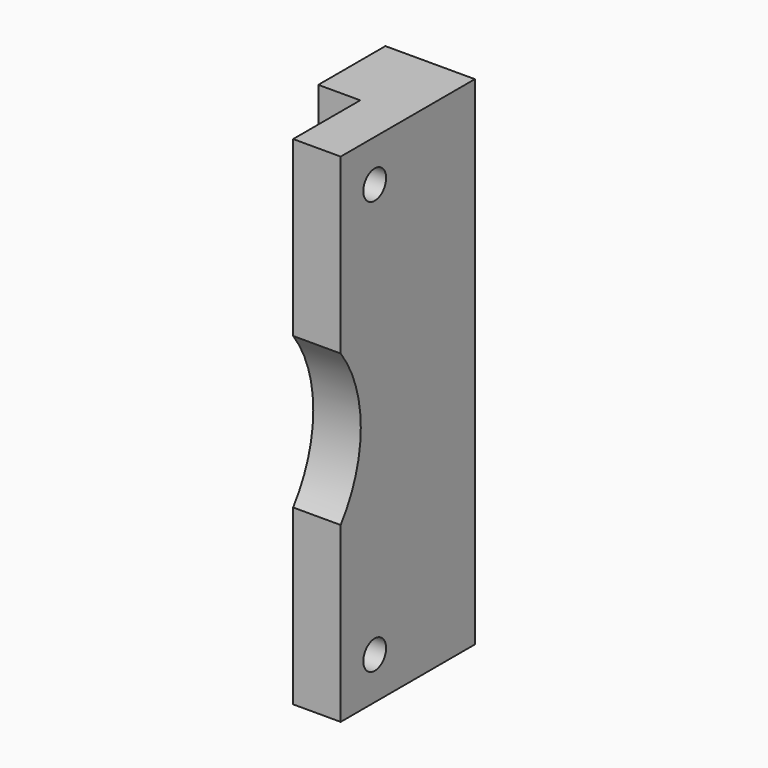
from build123d import *

# Parameters (mm, degrees)
F4_R      = 5
F5_DEPTH  = 17
F7_W      = 30
F7_H      = 178
F8_DEPTH  = 15
F10_D     = 10.2
F10_DEPTH = 80
F10_START = 31
F10_TIP   = 3.064389157
F11_D     = 13.2
F11_DEPTH = 30
F11_TIP   = 3.9656800856


with BuildPart() as f5:
    # F4 (on offset) → F5 (new body)
    with BuildSketch(Plane.YZ.offset(-48)):
        with BuildLine():
            Line((36, 89), (36, 27))
            ThreePointArc((36, 27), (45, 0), (36, -27))
            Line((36, -27), (36, -89))
            Line((36, -89), (96, -89))
            Line((96, -89), (96, 89))
            Line((96, 89), (36, 89))
        make_face()
        with Locations((51.2249938995, -74)):
            Circle(F4_R, mode=Mode.SUBTRACT)
        with Locations((51.2249938995, 74)):
            Circle(F4_R, mode=Mode.SUBTRACT)
        with Locations((51.2249938995, 74)):
            Circle(F4_R)
        with Locations((51.2249938995, -74)):
            Circle(F4_R)
    extrude(amount=F5_DEPTH)

    # F7 (on face) → F8 (join)
    with BuildSketch(Plane(origin=(-48, 0, 0), x_dir=(0, -1, 0), z_dir=(-1, 0, 0))):
        with Locations((-81, 0)):
            Rectangle(F7_W, F7_H)
    extrude(amount=F8_DEPTH)

    # F10
    # its depths count from where the whole tool has entered the part; down to there all is cleared
    with Locations(Plane.YZ.offset(-F10_START)):
        with Locations((51.2249938995, 74), (51.2249938995, -74)):
            Hole(F10_D / 2, depth=F10_DEPTH)
            with Locations((0, 0, -(F10_DEPTH + F10_TIP / 2))):  # 118° drill point
                Cone(0, F10_D / 2, F10_TIP, mode=Mode.SUBTRACT)

    # F11
    with Locations(Plane(origin=(0, 96, 0), x_dir=(-1, 0, 0), z_dir=(0, 1, 0))):
        with Locations((46.5, 65), (46.5, -65)):
            Hole(F11_D / 2, depth=F11_DEPTH)
            with Locations((0, 0, -(F11_DEPTH + F11_TIP / 2))):  # 118° drill point
                Cone(0, F11_D / 2, F11_TIP, mode=Mode.SUBTRACT)


solid = f5.part
